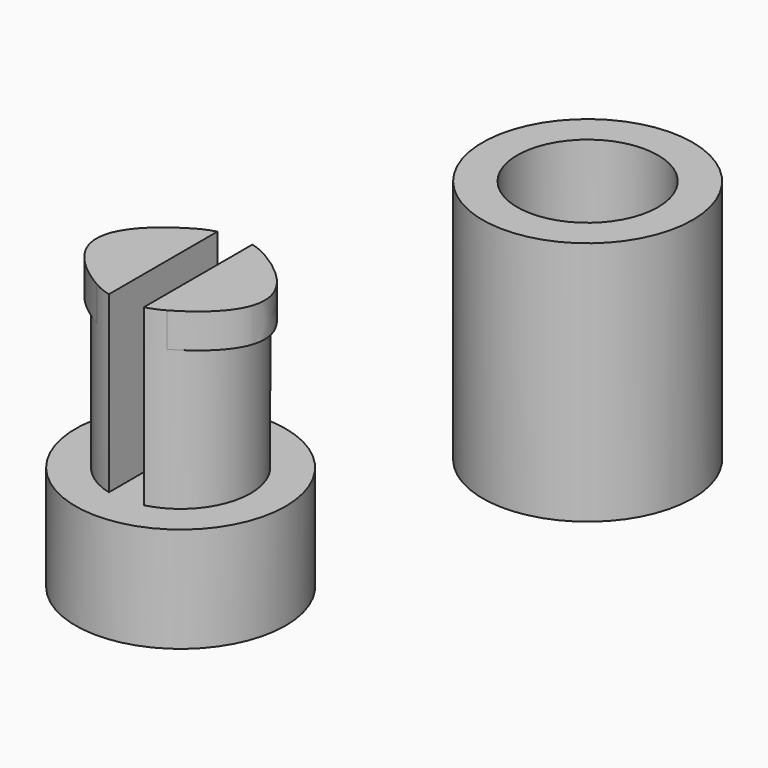
from build123d import *

# Parameters (mm, degrees)
F0_R      = 15
F1_DEPTH  = 35
F2_R      = 10.05
F3_DEPTH  = 25
F5_DEPTH  = 24.9
F6_R      = 15
F7_DEPTH  = 15
F9_DEPTH  = 4.9
F11_DEPTH = 5


with BuildPart() as f1:
    # F0 (on Top) → F1 (new body)
    with BuildSketch(Plane.XY):
        Circle(F0_R)
    extrude(amount=F1_DEPTH)

    # F2 (on face) → F3 (cut)
    with BuildSketch(Plane.XY.offset(35)):
        Circle(F2_R)
    extrude(amount=-F3_DEPTH, mode=Mode.SUBTRACT)

    # F10 (on face) → F11 (cut)
    with BuildSketch(Plane.XY.offset(10)):
        with BuildLine():
            ThreePointArc((-4.9, -8.7745370248), (-10.05, 0), (-4.9, 8.7745370248))
            add(Edge.make_bspline(
                [(-4.9, 8.7745370248), (-9.2730985357, 6.3504889236), (-15.0269014643, 0), (-9.2730985357, -6.3504889236), (-4.9, -8.7745370248)],
                knots=[0, 0, 0, 0, 0.5, 1, 1, 1, 1], degree=3))
        make_face()
        with BuildLine():
            add(Edge.make_bspline(
                [(4.9, 8.7745370248), (9.2730985357, 6.3504889236), (15.0269014643, 0), (9.2730985357, -6.3504889236), (4.9, -8.7745370248)],
                knots=[0, 0, 0, 0, 0.5, 1, 1, 1, 1], degree=3))
            ThreePointArc((4.9, 8.7745370248), (10.05, 0), (4.9, -8.7745370248))
        make_face()
    extrude(amount=F11_DEPTH, mode=Mode.SUBTRACT)


with BuildPart() as f5:
    # F4 (on Top) → F5 (new body)
    with BuildSketch(Plane.XY):
        with BuildLine():
            Line((-31.7498186064, -20.1511914093), (-31.7498186064, -39.5161081404))
            ThreePointArc((-31.7498186064, -39.5161081404), (-24.2498186064, -29.8336497748), (-31.7498186064, -20.1511914093))
        make_face()
    extrude(amount=F5_DEPTH)



with BuildPart() as f5b:
    # F4 (on Top) → F5, piece 2 (new body)
    with BuildSketch(Plane.XY):
        with BuildLine():
            Line((-36.7498186064, -39.5161081404), (-36.7498186064, -20.1511914093))
            ThreePointArc((-36.7498186064, -20.1511914093), (-44.2498186064, -29.8336497748), (-36.7498186064, -39.5161081404))
        make_face()
    extrude(amount=F5_DEPTH)


with BuildPart() as f5_1:
    add(f5.part)

    add(f5b.part)  # F7 merges F5b
    # F6 (on Top) → F7 (join)
    with BuildSketch(Plane.XY):
        with Locations((-34.2498186064, -29.8336497748)):
            Circle(F6_R)
    extrude(amount=-F7_DEPTH)

    # F8 (on face) → F9 (join)
    with BuildSketch(Plane.XY.offset(24.9)):
        with BuildLine():
            ThreePointArc((-39.2498186064, -38.4939038127), (-44.2498186064, -29.8336497748), (-39.2498186064, -21.173395737))
            add(Edge.make_bspline(
                [(-39.2498186064, -21.173395737), (-43.5799456253, -23.673395737), (-48.9196915875, -29.8336497748), (-43.5799456253, -35.9939038127), (-39.2498186064, -38.4939038127)],
                knots=[0, 0, 0, 0, 0.5, 1, 1, 1, 1], degree=3))
        make_face()
        with BuildLine():
            add(Edge.make_bspline(
                [(-29.2498186064, -21.173395737), (-24.9196915875, -23.673395737), (-19.5799456253, -29.8336497748), (-24.9196915875, -35.9939038127), (-29.2498186064, -38.4939038127)],
                knots=[0, 0, 0, 0, 0.5, 1, 1, 1, 1], degree=3))
            ThreePointArc((-29.2498186064, -21.173395737), (-24.2498186064, -29.8336497748), (-29.2498186064, -38.4939038127))
        make_face()
    extrude(amount=-F9_DEPTH)


solid = Compound([f1.part, f5_1.part])
